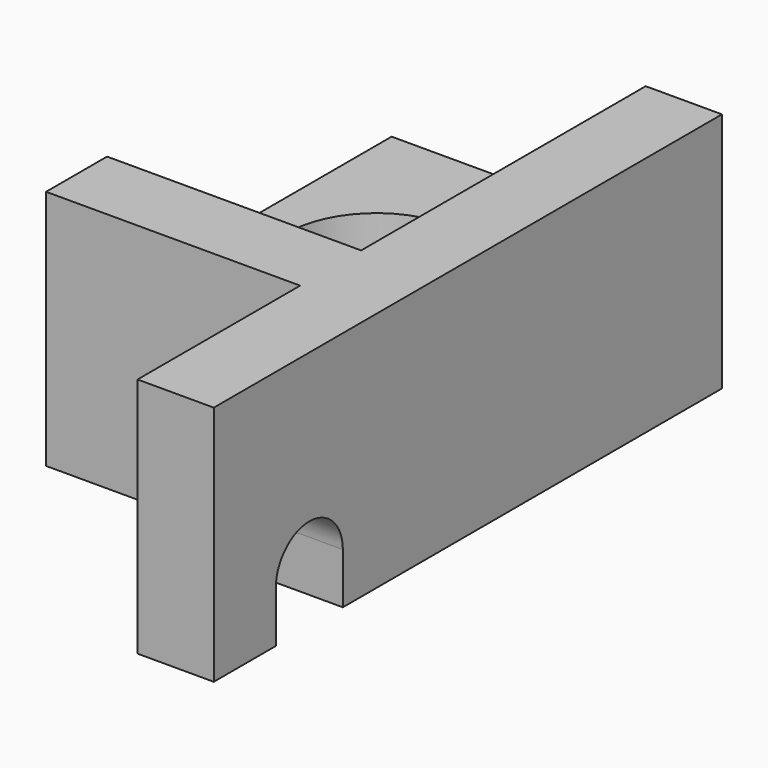
from build123d import *

# Parameters (mm, degrees)
F0_W     = 10
F0_H     = 14
F0_R     = 3.5
F1_DEPTH = 4.5
F2_DEPTH = 5
F4_DEPTH = 25


with BuildPart() as f1:
    # F0 (on Top) → F1 (new body)
    with BuildSketch(Plane.XY):
        Polygon((8, 7), (5, 7), (5, -7), (-5, -7), (-5, -10), (5, -10), (5, -18), (8, -18), align=None)
        Rectangle(F0_W, F0_H)
        Circle(F0_R, mode=Mode.SUBTRACT)
    extrude(amount=-F1_DEPTH)

    # F0 (on Top) → F2 (join)
    with BuildSketch(Plane.XY):
        Polygon((8, 7), (5, 7), (5, -7), (-5, -7), (-5, -10), (5, -10), (5, -18), (8, -18), align=None)
    extrude(amount=F2_DEPTH)

    # F3 (on face) → F4 (cut)
    with BuildSketch(Plane(origin=(5, 0, 0), x_dir=(0, -1, 0), z_dir=(-1, 0, 0))):
        with BuildLine():
            Line((14.95, -4.5), (14.95, -2.5))
            ThreePointArc((14.95, -2.5), (13.3, -4.15), (11.65, -2.5))
            Line((11.65, -2.5), (11.65, -4.5))
            Line((11.65, -4.5), (14.95, -4.5))
        make_face()
        with BuildLine():
            ThreePointArc((11.65, -2.5), (13.3, -4.15), (14.95, -2.5))
            ThreePointArc((14.95, -2.5), (13.3, -0.85), (11.65, -2.5))
        make_face()
    extrude(amount=-F4_DEPTH, mode=Mode.SUBTRACT)


solid = f1.part
